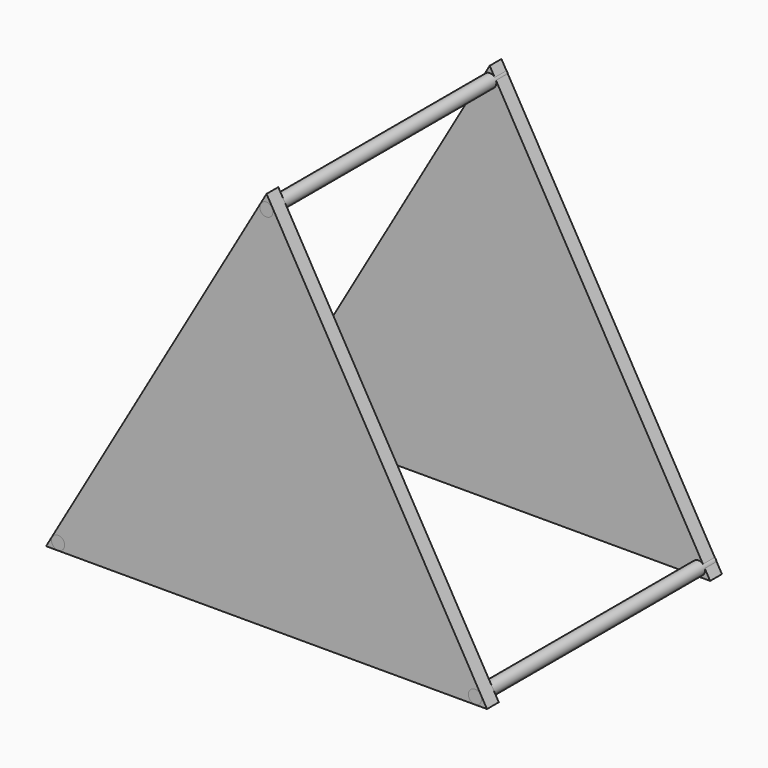
from build123d import *

# Parameters (mm, degrees)
F4_DEPTH = 5
F5_DEPTH = 5
F6_R     = 2.236629
F6_R_2   = 2.25
F6_R_3   = 2.258785
F7_DEPTH = 100


with BuildPart() as f4:
    # F2 (on offset) → F4 (new body)
    with BuildSketch(Plane.XZ.offset(50)):
        Polygon((-0.043742, 86.976736), (-75.043742, -42.927074), (74.956258, -42.927074), align=None)
    extrude(amount=-F4_DEPTH)


with BuildPart() as f5:
    # F3 (on offset) → F5 (new body)
    with BuildSketch(Plane.XZ.offset(-50)):
        Polygon((-0.125071, 86.708439), (-75.125071, -43.195372), (74.874929, -43.195372), align=None)
    extrude(amount=F5_DEPTH)


with BuildPart() as f7:
    # F6 (on offset) → F7 (new body)
    with BuildSketch(Plane.XZ.offset(50)):
        with Locations((-0.096302, 82.275233)):
            Circle(F6_R)
        with Locations((-70.970068, -40.572886)):
            Circle(F6_R_2)
        with Locations((70.869755, -40.595226)):
            Circle(F6_R_3)
    extrude(amount=-F7_DEPTH)


solid = Compound([f4.part, f5.part, f7.part])
